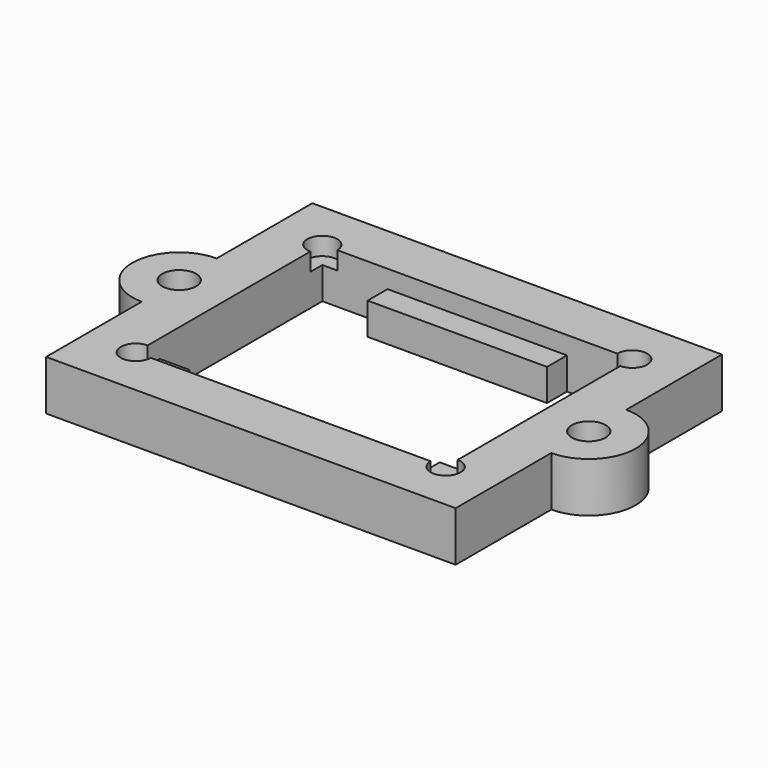
from build123d import *

# Parameters (mm, degrees)
F0_R     = 1.7
F1_DEPTH = 5
F3_DEPTH = 1.8


with BuildPart() as f1:
    # F0 (on Top) → F1 (new body)
    with BuildSketch(Plane.XY):
        with BuildLine():
            Line((-20.55, -4.7), (-20.55, -16.7))
            Line((-20.55, -16.7), (20.55, -16.7))
            Line((20.55, -16.7), (20.55, -4.7))
            ThreePointArc((20.55, -4.7), (25.25, 0), (20.55, 4.7))
            Line((20.55, 4.7), (20.55, 16.7))
            Line((20.55, 16.7), (-20.55, 16.7))
            Line((-20.55, 16.7), (-20.55, 4.7))
            ThreePointArc((-20.55, 4.7), (-25.25, 0), (-20.55, -4.7))
        make_face()
        with Locations((-20.55, 0)):
            Circle(F0_R, mode=Mode.SUBTRACT)
        Polygon((-9, 11.7), (-9, 9.2), (9, 9.2), (9, 11.7), (15.55, 11.7), (15.55, -8.7), (12.55, -8.7), (12.55, -11.7), (-12.55, -11.7), (-12.55, -8.7), (-15.55, -8.7), (-15.55, 11.7), align=None, mode=Mode.SUBTRACT)
        with Locations((20.55, 0)):
            Circle(F0_R, mode=Mode.SUBTRACT)
    extrude(amount=F1_DEPTH)

    # F2 (on face) → F3 (cut)
    with BuildSketch(Plane.XY.offset(5)):
        with BuildLine():
            Line((14.05, 11.7), (-14.05, 11.7))
            ThreePointArc((-14.05, 11.7), (-16.61066, 12.76066), (-15.55, 10.2))
            Line((-15.55, 10.2), (-15.55, -10.2))
            ThreePointArc((-15.55, -10.2), (-16.61066, -12.76066), (-14.05, -11.7))
            Line((-14.05, -11.7), (14.05, -11.7))
            ThreePointArc((14.05, -11.7), (16.61066, -12.76066), (15.55, -10.2))
            Line((15.55, -10.2), (15.55, 10.2))
            ThreePointArc((15.55, 10.2), (16.61066, 12.76066), (14.05, 11.7))
        make_face()
    extrude(amount=-F3_DEPTH, mode=Mode.SUBTRACT)


solid = f1.part
